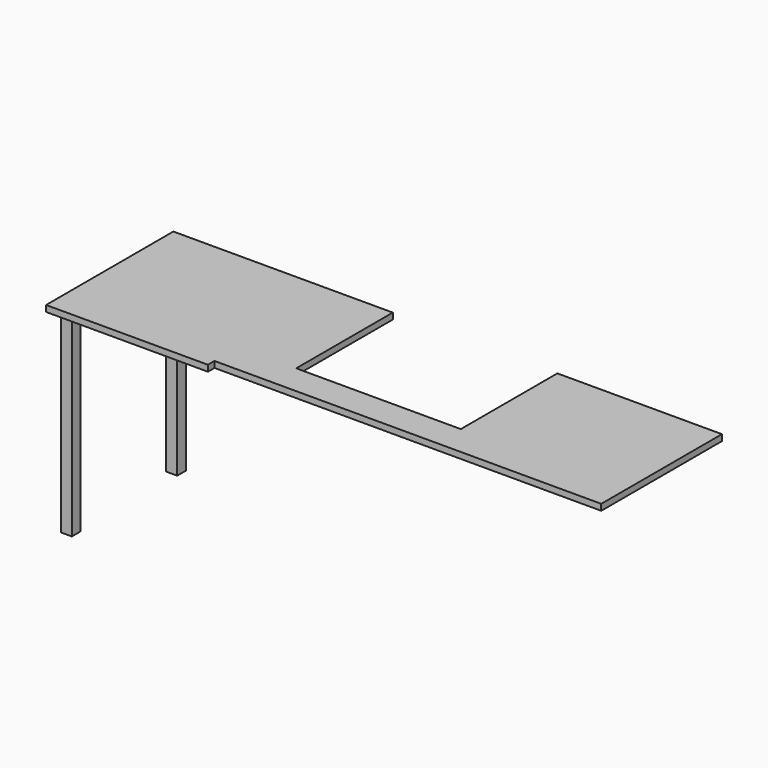
from build123d import *

# Parameters (mm, degrees)
F1_DEPTH = 28.575
F2_W     = 50.8
F2_H     = 50.8
F3_DEPTH = 901.7


with BuildPart() as f1:
    # F0 (on Top) → F1 (new body)
    with BuildSketch(Plane.XY):
        Polygon((-1790.7, 0), (0, 0), (0, 698.5), (-762, 698.5), (-762, 139.7), (-1524, 139.7), (-1524, 698.5), (-2540, 698.5), (-2540, 0), (-2540, -38.1), (-1790.7, -38.1), align=None)
    extrude(amount=F1_DEPTH)

    # F2 (on face) → F3 (join)
    with BuildSketch(Plane(origin=(0, 0, 0), x_dir=(1, 0, 0), z_dir=(0, 0, -1))):
        with Locations((-2476.5, -25.4)):
            Rectangle(F2_W, F2_H)
        with Locations((-2476.5, -635)):
            Rectangle(F2_W, F2_H)
    extrude(amount=F3_DEPTH)


solid = f1.part
